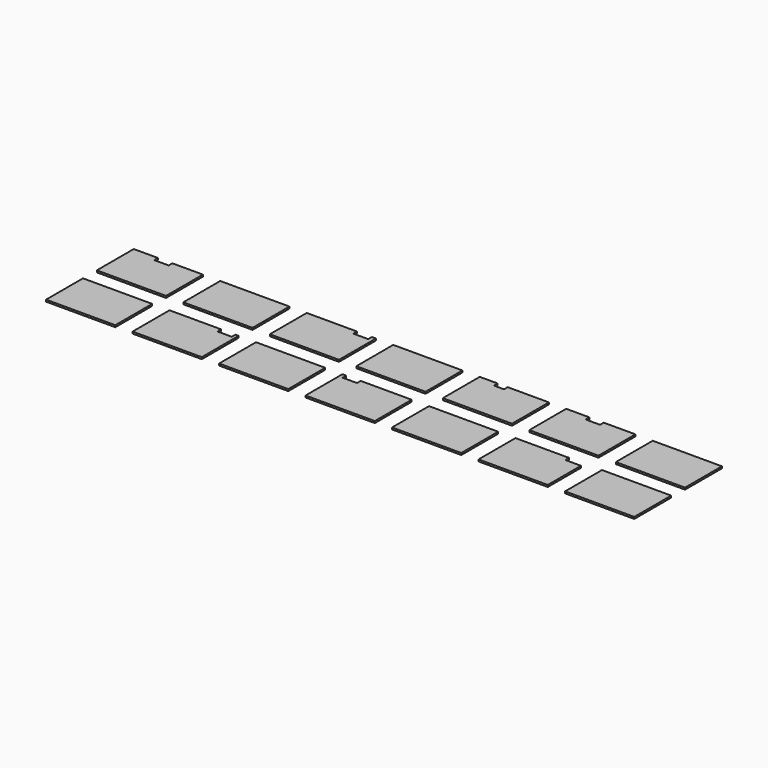
from build123d import *

# Parameters (mm, degrees)
F0_W     = 1200
F0_H     = 800
F1_DEPTH = 32


with BuildPart() as f1:
    # F0 (on Top) → F1 (new body)
    with BuildSketch(Plane.XY):
        Polygon((-431.179844, -2.781391), (-851.179844, -2.781391), (-851.179844, -802.781391), (348.820156, -802.781391), (348.820156, -2.781391), (-181.179844, -2.781391), (-181.179844, -82.781391), (-431.179844, -82.781391), align=None)
        with Locations((1248.820156, -402.781391)):
            Rectangle(F0_W, F0_H)
        Polygon((3348.820156, -802.781391), (3348.820156, -2.781391), (3278.820156, -2.781391), (3278.820156, -82.781391), (3018.820156, -82.781391), (3018.820156, -2.781391), (2148.820156, -2.781391), (2148.820156, -802.781391), align=None)
        with Locations((4248.820156, -402.781391)):
            Rectangle(F0_W, F0_H)
        Polygon((6348.820156, -802.781391), (6348.820156, -2.781391), (5633.820156, -2.781391), (5633.820156, -82.781391), (5458.820156, -82.781391), (5458.820156, -2.781391), (5148.820156, -2.781391), (5148.820156, -802.781391), align=None)
        Polygon((7848.820156, -802.781391), (7848.820156, -2.781391), (7298.820156, -2.781391), (7298.820156, -82.781391), (7048.820156, -82.781391), (7048.820156, -2.781391), (6648.820156, -2.781391), (6648.820156, -802.781391), align=None)
        with Locations((8748.820156, -402.781391)):
            Rectangle(F0_W, F0_H)
        with Locations((-251.179844, -1502.781391)):
            Rectangle(F0_W, F0_H)
        Polygon((1848.820156, -1902.781391), (1848.820156, -1102.781391), (1793.820156, -1102.781391), (1793.820156, -1182.781391), (1543.820156, -1182.781391), (1543.820156, -1102.781391), (648.820156, -1102.781391), (648.820156, -1902.781391), align=None)
        with Locations((2748.820156, -1502.781391)):
            Rectangle(F0_W, F0_H)
        Polygon((4848.820156, -1902.781391), (4848.820156, -1102.781391), (3963.820156, -1102.781391), (3963.820156, -1182.781391), (3713.820156, -1182.781391), (3713.820156, -1102.781391), (3648.820156, -1102.781391), (3648.820156, -1902.781391), align=None)
        with Locations((5748.820156, -1502.781391)):
            Rectangle(F0_W, F0_H)
        Polygon((7848.820156, -1902.781391), (7848.820156, -1182.781391), (7578.820156, -1182.781391), (7578.820156, -1102.781391), (6648.820156, -1102.781391), (6648.820156, -1902.781391), align=None)
        with Locations((8748.820156, -1502.781391)):
            Rectangle(F0_W, F0_H)
    extrude(amount=F1_DEPTH)


solid = f1.part
